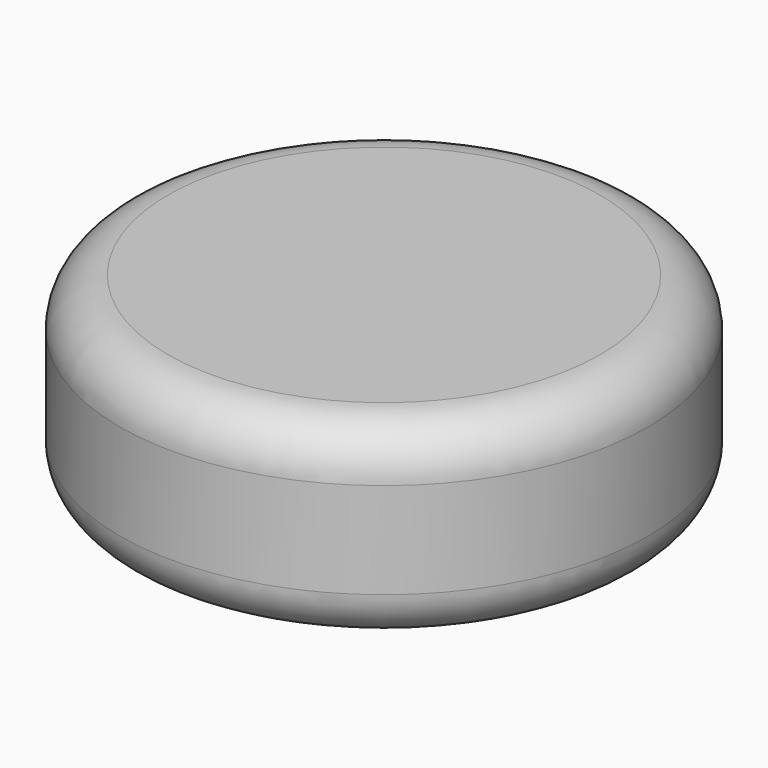
from build123d import *

# Parameters (mm, degrees)
F0_R          = 55
F1_DEPTH      = 20
F1_DEPTH_BACK = 20
F2_R          = 10


with BuildPart() as f1:
    # F0 (on Top) → F1 (new body, two sides)
    with BuildSketch(Plane.XY) as f1_sk:
        Circle(F0_R)
    extrude(amount=F1_DEPTH)
    extrude(f1_sk.sketch, amount=-F1_DEPTH_BACK)

    # F2
    f2_edges = [f1.edges().sort_by_distance(p)[0] for p in [
        (-55, 0, -20),
        (-55, 0, 20),
    ]]
    fillet(f2_edges, radius=F2_R)


solid = f1.part
